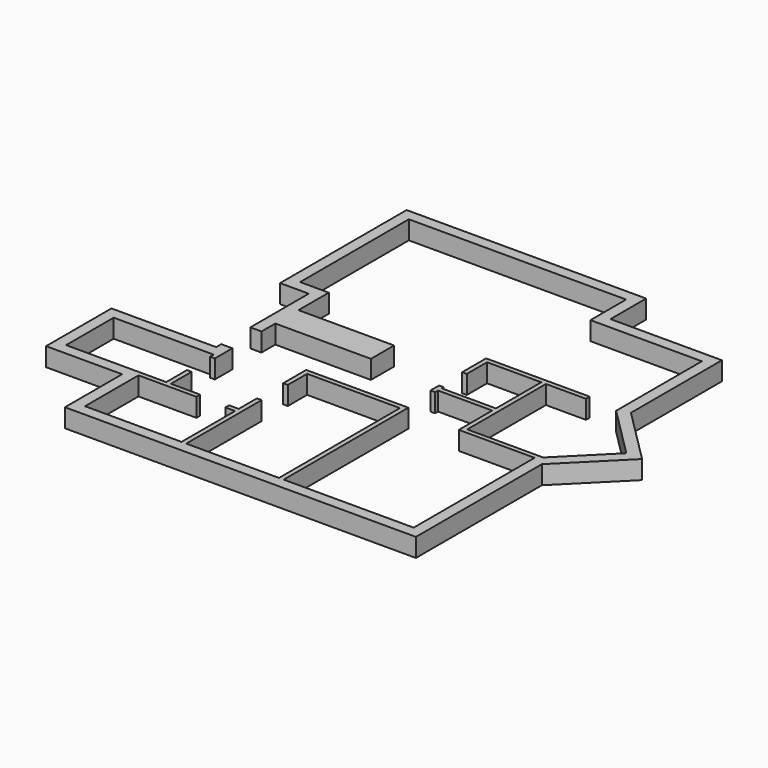
from build123d import *

# Parameters (mm, degrees)
F0_W     = 2.575
F0_H     = 0.78
F1_DEPTH = 0.5


with BuildPart() as f1:
    # F0 (on Top) → F1 (new body)
    with BuildSketch(Plane.XY):
        Polygon((-5.342754, -5.698851), (4.107246, -5.698851), (4.107246, -1.458851), (5.606312, 0.040215), (4.107246, 1.539281), (4.107246, 4.601149), (1.107246, 4.601149), (1.107246, 5.801149), (-5.342754, 5.801149), (-5.342754, 1.541149), (-4.570529, 1.541149), (-4.570529, -0.423851), (-4.270529, -0.423851), (-4.270529, 0.041149), (-4.270529, 0.821149), (-4.270529, 1.841149), (-5.042754, 1.841149), (-5.042754, 5.501149), (0.807246, 5.501149), (0.807246, 4.301149), (3.807246, 4.301149), (3.807246, 1.415017), (5.182048, 0.040215), (3.937982, -1.203851), (1.892246, -1.203851), (1.892246, 1.446149), (2.972246, 1.446149), (2.972246, 1.571149), (0.182246, 1.571149), (0.182246, 0.766149), (0.307246, 0.766149), (0.307246, 1.446149), (1.767246, 1.446149), (1.767246, -0.078851), (0.307246, -0.078851), (0.307246, -0.013851), (0.182246, -0.013851), (0.182246, -0.303851), (0.307246, -0.303851), (0.307246, -0.203851), (1.767246, -0.203851), (1.767246, -1.328851), (3.807246, -1.328851), (3.812982, -1.328851), (3.807246, -1.334587), (3.807246, -5.398851), (0.307246, -5.398851), (0.307246, -1.203851), (0.182246, -1.203851), (-2.442754, -1.203851), (-2.442754, -1.978851), (-2.317754, -1.978851), (-2.317754, -1.328851), (0.182246, -1.328851), (0.182246, -5.398851), (-2.317754, -5.398851), (-2.317754, -2.858851), (-2.442754, -2.858851), (-2.442754, -3.473851), (-2.702754, -3.473851), (-2.702754, -3.598851), (-2.442754, -3.598851), (-2.442754, -5.398851), (-5.042754, -5.398851), (-5.042754, -3.598851), (-3.482754, -3.598851), (-3.482754, -3.473851), (-4.270529, -3.473851), (-4.270529, -2.773851), (-4.395529, -2.773851), (-4.395529, -3.473851), (-7.090529, -3.473851), (-7.090529, -1.873851), (-4.395529, -1.873851), (-4.395529, -1.993851), (-4.270529, -1.993851), (-4.270529, -1.403851), (-4.570529, -1.403851), (-4.570529, -1.573851), (-7.390529, -1.573851), (-7.390529, -3.773851), (-5.342754, -3.773851), align=None)
        with Locations((-2.983029, 0.431149)):
            Rectangle(F0_W, F0_H)
    extrude(amount=F1_DEPTH)


solid = f1.part
